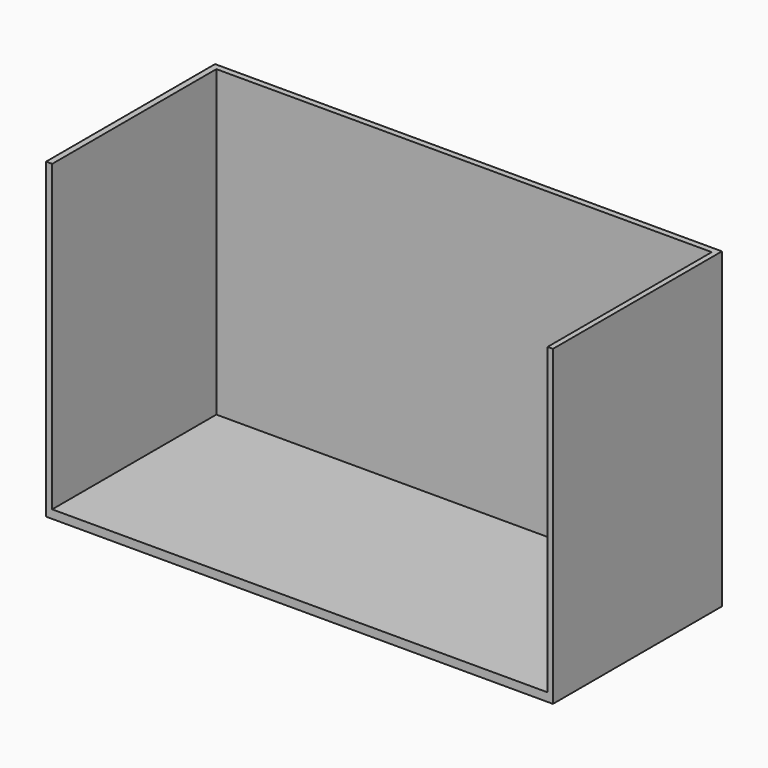
from build123d import *

# Parameters (mm, degrees)
F0_W     = 762
F0_H     = 317.5
F1_DEPTH = 469.9
F2_W     = 744.7309494019
F2_H     = 308.4608913586
F3_DEPTH = 457.2


with BuildPart() as f1:
    # F0 (on Top) → F1 (new body)
    with BuildSketch(Plane.XY):
        with Locations((-20.6988760249, -158.75)):
            Rectangle(F0_W, F0_H)
    extrude(amount=-F1_DEPTH)

    # F2 (on face) → F3 (cut)
    with BuildSketch(Plane.XY):
        with Locations((-20.1315879822, -163.2695543207)):
            Rectangle(F2_W, F2_H)
    extrude(amount=-F3_DEPTH, mode=Mode.SUBTRACT)


solid = f1.part
